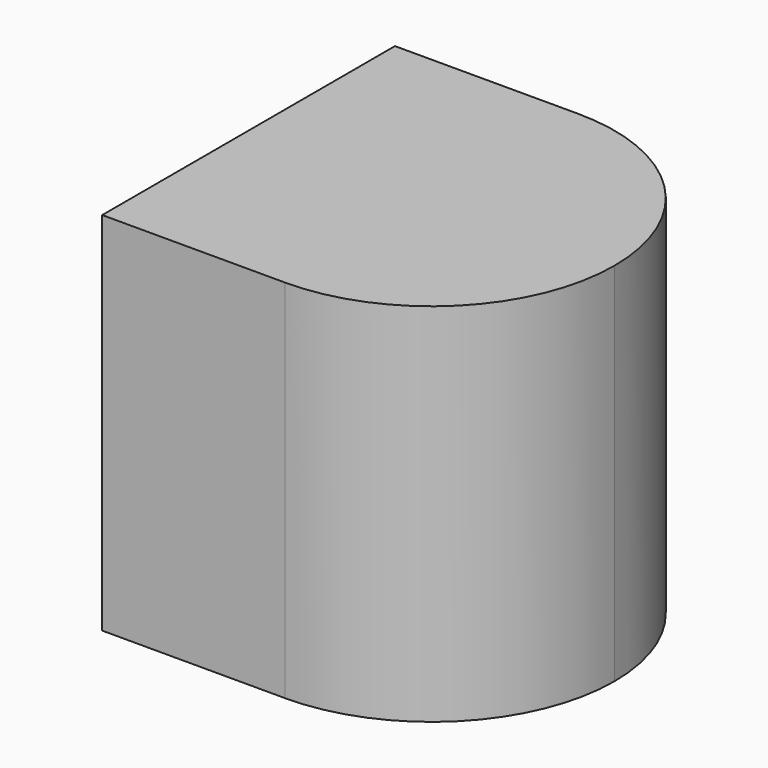
from build123d import *

# Parameters (mm, degrees)
F1_DEPTH = 63.5


with BuildPart() as f1:
    # F0 (on Top) → F1 (new body)
    with BuildSketch(Plane.XY):
        with BuildLine():
            ThreePointArc((0, -31.75), (22.4506403027, -22.4506403027), (31.75, 0))
            ThreePointArc((31.75, 0), (22.4506403027, 22.4506403027), (0, 31.75))
            Line((0, 31.75), (0, -31.75))
        make_face()
        with BuildLine():
            Line((0, -31.75), (0, 31.75))
            ThreePointArc((0, 31.75), (-22.4506403027, 22.4506403027), (-31.75, 0))
            ThreePointArc((-31.75, 0), (-22.4506403027, -22.4506403027), (0, -31.75))
        make_face()
        with BuildLine():
            ThreePointArc((-31.75, 0), (-22.4506403027, 22.4506403027), (0, 31.75))
            Line((0, 31.75), (-31.75, 31.75))
            Line((-31.75, 31.75), (-31.75, 0))
        make_face()
        with BuildLine():
            Line((-31.75, -31.75), (0, -31.75))
            ThreePointArc((0, -31.75), (-22.4506403027, -22.4506403027), (-31.75, 0))
            Line((-31.75, 0), (-31.75, -31.75))
        make_face()
    extrude(amount=F1_DEPTH)


solid = f1.part
